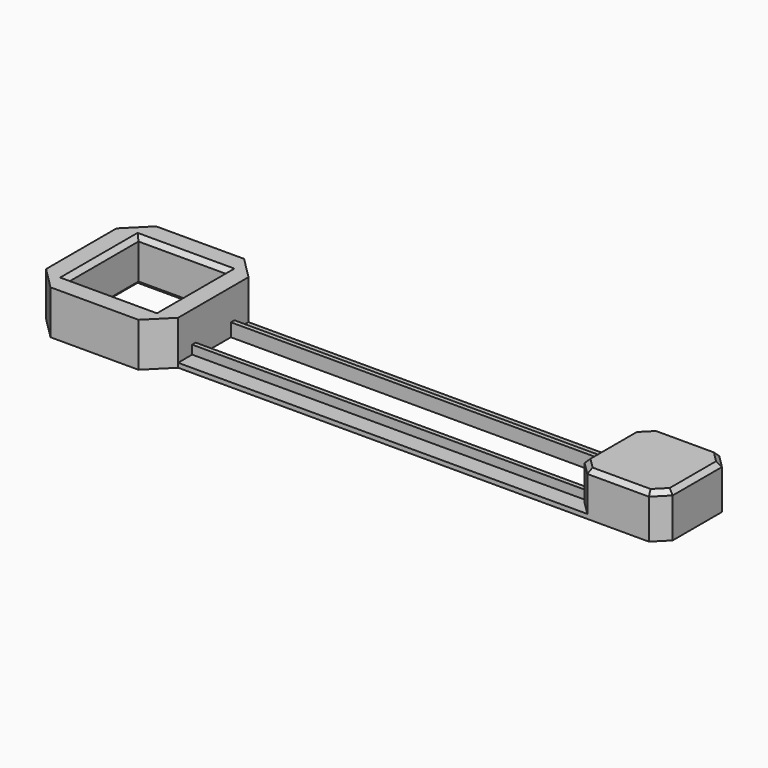
from build123d import *

# Parameters (mm, degrees)
F0_W     = 90
F0_H     = 5
F1_DEPTH = 1
F0_W_2   = 5
F0_H_2   = 20
F2_DEPTH = 10
F3_W     = 90
F3_H     = 1
F4_DEPTH = 2
F5_SIZE  = 3
F6_SIZE  = 1
F7_SIZE  = 5


with BuildPart() as f1:
    # F0 (on Top) → F1 (new body)
    with BuildSketch(Plane.XY):
        with Locations((5, -7.5)):
            Rectangle(F0_W, F0_H)
    extrude(amount=F1_DEPTH)



with BuildPart() as f1b:
    # F0 (on Top) → F1, piece 2 (new body)
    with BuildSketch(Plane.XY):
        Polygon((50, 5), (50, 10), (-30, 10), (-40, 10), (-40, 5), align=None)
    extrude(amount=F1_DEPTH)


with BuildPart() as f1_1:
    add(f1.part)

    add(f1b.part)  # F2 merges F1b
    # F0 (on Top) → F2 (join)
    with BuildSketch(Plane.XY):
        Polygon((70, -10), (70, 10), (50, 10), (50, 5), (50, -5), (50, -10), align=None)
        Polygon((-45, 10), (-40, 10), (-40, 15), (-70, 15), (-70, 10), (-65, 10), align=None)
        Polygon((-40, 5), (-40, 10), (-45, 10), (-45, -10), (-40, -10), (-40, -5), align=None)
        with Locations((-67.5, 0)):
            Rectangle(F0_W_2, F0_H_2)
        Polygon((-40, -15), (-40, -10), (-45, -10), (-65, -10), (-70, -10), (-70, -15), align=None)
    extrude(amount=F2_DEPTH)

    # F3 (on face) → F4 (join)
    with BuildSketch(Plane.XY.offset(1)):
        with Locations((5, 5.5)):
            Rectangle(F3_W, F3_H)
        with Locations((5, -5.5)):
            Rectangle(F3_W, F3_H)
    extrude(amount=F4_DEPTH)

    # F5
    f5_edges = [f1_1.edges().sort_by_distance(p)[0] for p in [
        (70, -10, 5),
        (70, 10, 5),
        (50, -10, 5.5),
        (50, 10, 5.5),
    ]]
    chamfer(f5_edges, length=F5_SIZE)

    # F6
    f6_edges = [f1_1.edges().sort_by_distance(p)[0] for p in [
        (60, 10, 10),
        (51.5, 8.5, 10),
        (50, 0, 10),
        (51.5, -8.5, 10),
        (60, -10, 10),
        (68.5, -8.5, 10),
        (70, 0, 10),
        (68.5, 8.5, 10),
        (-55, 10, 10),
        (-65, 0, 10),
        (-55, -10, 10),
        (-45, 0, 10),
        (-65, 0, 0),
        (-55, -10, 0),
        (-45, 0, 0),
        (-55, 10, 0),
    ]]
    chamfer(f6_edges, length=F6_SIZE)

    # F7
    f7_edges = [f1_1.edges().sort_by_distance(p)[0] for p in [
        (-40, 15, 5),
        (-70, 15, 5),
        (-70, -15, 5),
        (-40, -15, 5),
    ]]
    chamfer(f7_edges, length=F7_SIZE)


solid = f1_1.part
